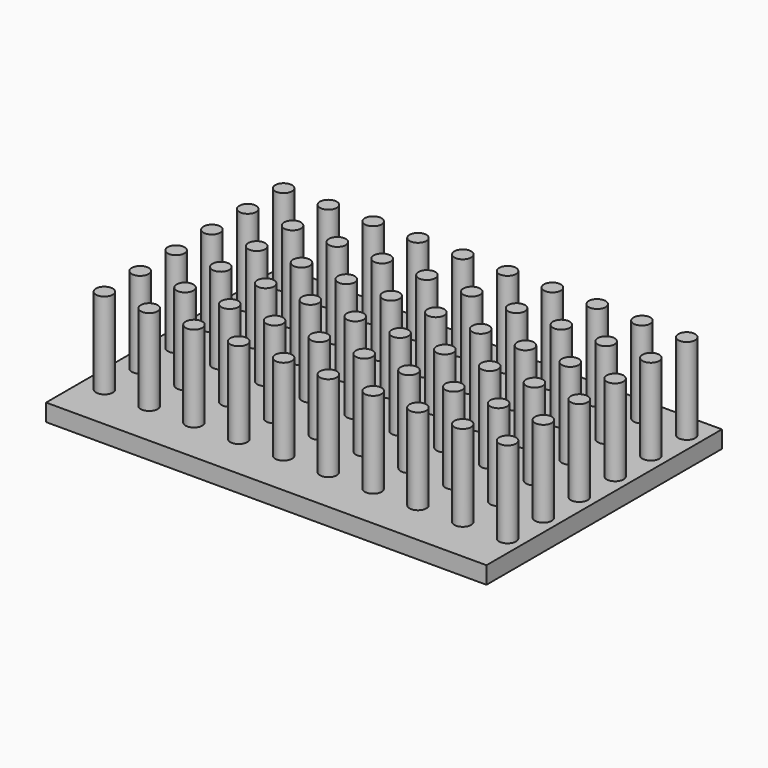
from build123d import *

# Parameters (mm, degrees)
F0_W     = 127.8
F0_H     = 85.4
F1_DEPTH = 5
F2_R     = 2.4425
F3_DEPTH = 25


with BuildPart() as f1:
    # F0 (on Top) → F1 (new body)
    with BuildSketch(Plane.XY):
        Rectangle(F0_W, F0_H)
    extrude(amount=F1_DEPTH)

    # F2 (on face) → F3 (join)
    with BuildSketch(Plane.XY.offset(5)):
        with Locations((-57.592481, 35.563733)):
            Circle(F2_R)
        with Locations((-44.592481, 35.563733)):
            Circle(F2_R)
        with Locations((-31.592481, 35.563733)):
            Circle(F2_R)
        with Locations((-18.592481, 35.563733)):
            Circle(F2_R)
        with Locations((-5.592481, 35.563733)):
            Circle(F2_R)
        with Locations((7.407519, 35.563733)):
            Circle(F2_R)
        with Locations((20.407519, 35.563733)):
            Circle(F2_R)
        with Locations((33.407519, 35.563733)):
            Circle(F2_R)
        with Locations((46.407519, 35.563733)):
            Circle(F2_R)
        with Locations((59.407519, 35.563733)):
            Circle(F2_R)
        with Locations((46.407519, 22.563733)):
            Circle(F2_R)
        with Locations((33.407519, 22.563733)):
            Circle(F2_R)
        with Locations((59.407519, 22.563733)):
            Circle(F2_R)
        with Locations((-57.592481, 22.563733)):
            Circle(F2_R)
        with Locations((-44.592481, 22.563733)):
            Circle(F2_R)
        with Locations((-31.592481, 22.563733)):
            Circle(F2_R)
        with Locations((-18.592481, 22.563733)):
            Circle(F2_R)
        with Locations((-5.592481, 22.563733)):
            Circle(F2_R)
        with Locations((7.407519, 22.563733)):
            Circle(F2_R)
        with Locations((20.407519, 22.563733)):
            Circle(F2_R)
        with Locations((46.407519, 9.563733)):
            Circle(F2_R)
        with Locations((33.407519, 9.563733)):
            Circle(F2_R)
        with Locations((59.407519, 9.563733)):
            Circle(F2_R)
        with Locations((-57.592481, 9.563733)):
            Circle(F2_R)
        with Locations((-44.592481, 9.563733)):
            Circle(F2_R)
        with Locations((-31.592481, 9.563733)):
            Circle(F2_R)
        with Locations((-18.592481, 9.563733)):
            Circle(F2_R)
        with Locations((-5.592481, 9.563733)):
            Circle(F2_R)
        with Locations((7.407519, 9.563733)):
            Circle(F2_R)
        with Locations((20.407519, 9.563733)):
            Circle(F2_R)
        with Locations((46.407519, -3.436267)):
            Circle(F2_R)
        with Locations((33.407519, -3.436267)):
            Circle(F2_R)
        with Locations((59.407519, -3.436267)):
            Circle(F2_R)
        with Locations((-57.592481, -3.436267)):
            Circle(F2_R)
        with Locations((-44.592481, -3.436267)):
            Circle(F2_R)
        with Locations((-31.592481, -3.436267)):
            Circle(F2_R)
        with Locations((-18.592481, -3.436267)):
            Circle(F2_R)
        with Locations((-5.592481, -3.436267)):
            Circle(F2_R)
        with Locations((7.407519, -3.436267)):
            Circle(F2_R)
        with Locations((20.407519, -3.436267)):
            Circle(F2_R)
        with Locations((46.407519, -16.436267)):
            Circle(F2_R)
        with Locations((33.407519, -16.436267)):
            Circle(F2_R)
        with Locations((59.407519, -16.436267)):
            Circle(F2_R)
        with Locations((-57.592481, -16.436267)):
            Circle(F2_R)
        with Locations((-44.592481, -16.436267)):
            Circle(F2_R)
        with Locations((-31.592481, -16.436267)):
            Circle(F2_R)
        with Locations((-18.592481, -16.436267)):
            Circle(F2_R)
        with Locations((-5.592481, -16.436267)):
            Circle(F2_R)
        with Locations((7.407519, -16.436267)):
            Circle(F2_R)
        with Locations((20.407519, -16.436267)):
            Circle(F2_R)
        with Locations((46.407519, -29.436267)):
            Circle(F2_R)
        with Locations((33.407519, -29.436267)):
            Circle(F2_R)
        with Locations((59.407519, -29.436267)):
            Circle(F2_R)
        with Locations((-57.592481, -29.436267)):
            Circle(F2_R)
        with Locations((-44.592481, -29.436267)):
            Circle(F2_R)
        with Locations((-31.592481, -29.436267)):
            Circle(F2_R)
        with Locations((-18.592481, -29.436267)):
            Circle(F2_R)
        with Locations((-5.592481, -29.436267)):
            Circle(F2_R)
        with Locations((7.407519, -29.436267)):
            Circle(F2_R)
        with Locations((20.407519, -29.436267)):
            Circle(F2_R)
    extrude(amount=F3_DEPTH)


solid = f1.part
